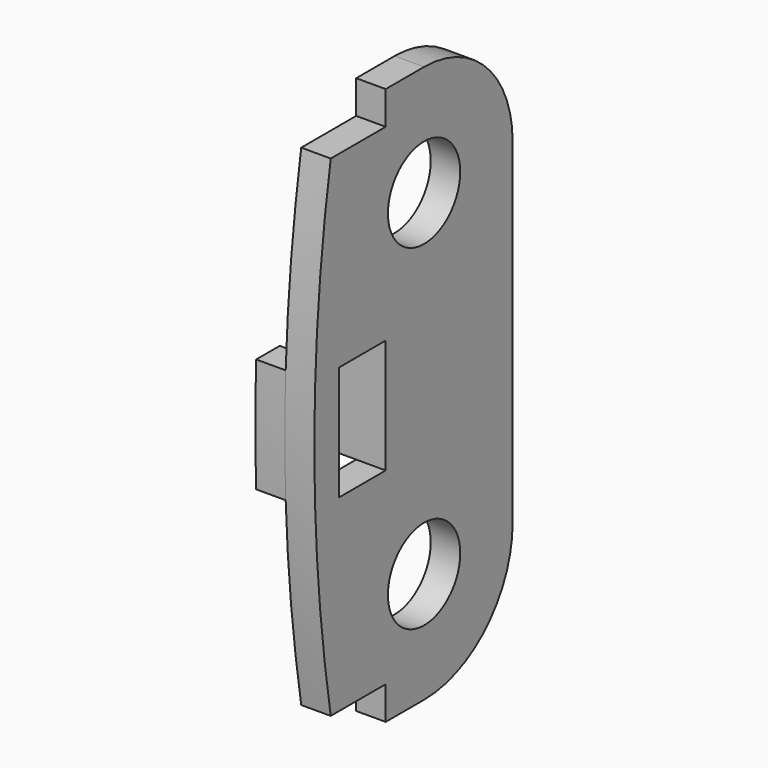
from build123d import *

# Parameters (mm, degrees)
SKETCH010_R          = 2.45
PAD007_DEPTH         = 1.6
PAD008_DEPTH         = 1.6
SKETCH059_W          = 3.1771358599
SKETCH059_H          = 6.2
POCKET022_DEPTH      = 1.6
POCKET022_DEPTH_BACK = 1.6


with BuildPart() as part:
    # Sketch010 → Pad007 (new body)
    with BuildSketch(Plane.YZ.offset(-8.7)):
        with BuildLine():
            ThreePointArc((-6, 6), (-7.4371881489, -9.1), (-6, -24.2))
            Line((-6, -24.2), (0, -24.2))
            ThreePointArc((0, -24.2), (4.2426406871, -22.4426406871), (6, -18.2))
            Line((6, 0), (6, -18.2))
            ThreePointArc((6, 0), (4.2426406871, 4.2426406871), (0, 6))
            Line((-6, 6), (0, 6))
        make_face()
        Circle(SKETCH010_R, mode=Mode.SUBTRACT)
        with Locations((0, -18.2)):
            Circle(SKETCH010_R, mode=Mode.SUBTRACT)
    extrude(amount=PAD007_DEPTH)

    # Sketch011 → Pad008 (join)
    with BuildSketch(Plane.YZ.offset(-8.7)):
        with BuildLine():
            ThreePointArc((5.8114989668, -16.707860677), (3.6774423219, -13.4590699257), (0, -12.2))
            Line((-7.3771358599, -12.2), (0, -12.2))
            ThreePointArc((-7.3771358599, -6), (-7.4371881489, -9.1), (-7.3771358599, -12.2))
            Line((-7.3771358599, -6), (0, -6))
            ThreePointArc((0, -6), (3.6774423219, -4.7409300743), (5.8114989668, -1.492139323))
            Line((5.8114989668, -1.492139323), (6, -0.7579762707))
            Line((6, -0.7579762707), (6, -17.4420237293))
            Line((6, -17.4420237293), (5.8114989668, -16.707860677))
        make_face()
    extrude(amount=-PAD008_DEPTH)

    # Sketch059 → Pocket022 (cut, two sides)
    with BuildSketch(Plane.YZ.offset(-8.7)) as pocket022_sk:
        with BuildLine():
            Line((-2.6, 6), (-2.6, 4.2))
            Line((-2.6, 4.2), (-6.3244944235, 4.2))
            ThreePointArc((-6, 6), (-6.167388681, 5.1009268767), (-6.3244944235, 4.2))
            Line((-6, 6), (-2.6, 6))
        make_face()
        with BuildLine():
            Line((-6, -24.2), (-2.6, -24.2))
            Line((-2.6, -24.2), (-2.6, -22.4))
            Line((-2.6, -22.4), (-6.3244944235, -22.4))
            ThreePointArc((-6.3244944235, -22.4), (-6.167388681, -23.3009268767), (-6, -24.2))
        make_face()
        with Locations((-4.18856793, -9.1)):
            Rectangle(SKETCH059_W, SKETCH059_H)
    extrude(amount=-POCKET022_DEPTH, mode=Mode.SUBTRACT)
    extrude(pocket022_sk.sketch, amount=POCKET022_DEPTH_BACK, mode=Mode.SUBTRACT)


with BuildPart() as part_1:
    # Body007 placement: moved
    add(part.part.moved(Location((0, -72.6064407756, 0))))


solid = part_1.part
